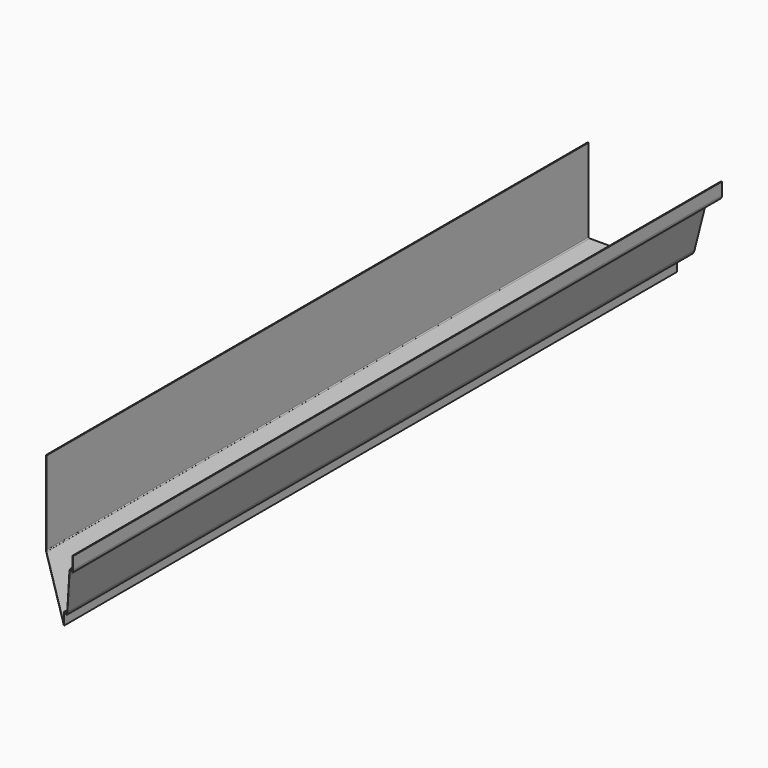
from build123d import *

# Parameters (mm, degrees)
F1_DEPTH = 1000
F2_R     = 2.5
F3_DEPTH = 500


with BuildPart() as f1:
    # F0 (on Front) → F1 (new body)
    with BuildSketch(Plane.XZ):
        with BuildLine():
            Line((75, 38.914216), (75, 52.5))
            Line((75, 52.5), (74, 52.5))
            Line((74, 52.5), (74, 38.875))
            ThreePointArc((74, 38.875), (73.361451, 36.706903), (71.649678, 35.231024))
            ThreePointArc((71.649678, 35.231024), (60.8185, 29.988223), (54.643786, 19.659898))
            Line((54.643786, 19.659898), (43.416317, -24.63337))
            ThreePointArc((43.416317, -24.63337), (41.948954, -27.705545), (39.413109, -29.977308))
            Line((39.413109, -29.977308), (26.950339, -37.332837))
            ThreePointArc((26.950339, -37.332837), (24.789532, -39.524934), (24, -42.5))
            Line((24, -42.5), (24, -51.5))
            Line((24, -51.5), (-73, -51.5))
            ThreePointArc((-73, -51.5), (-73.707107, -51.207107), (-74, -50.5))
            Line((-74, -50.5), (-74, 42.5))
            Line((-74, 42.5), (-75, 42.5))
            Line((-75, 42.5), (-75, -50.5))
            ThreePointArc((-75, -50.5), (-74.414214, -51.914214), (-73, -52.5))
            Line((-73, -52.5), (25, -52.5))
            Line((25, -52.5), (25, -42.5))
            ThreePointArc((25, -42.5), (25.657943, -40.020778), (27.458616, -38.194031))
            Line((27.458616, -38.194031), (39.921386, -30.838502))
            ThreePointArc((39.921386, -30.838502), (42.749295, -28.305091), (44.385661, -24.87908))
            Line((44.385661, -24.87908), (55.613129, 19.414189))
            ThreePointArc((55.613129, 19.414189), (61.539869, 29.29273), (71.932405, 34.263346))
            ThreePointArc((71.932405, 34.263346), (74.173992, 36.121942), (75, 38.914216))
        make_face()
    extrude(amount=F1_DEPTH)

    # F2 (on face) → F3 (intersect)
    with BuildSketch(Plane(origin=(0, 0, -52.5), x_dir=(1, 0, 0), z_dir=(0, 0, -1))):
        Polygon((167.548278, 1032.747719), (-332.451722, 532.747719), (-332.451722, 32.747719), (167.548278, 32.747719), (167.548278, 532.747719), align=None)
        with Locations((13.009851, 434.264054)):
            Circle(F2_R, mode=Mode.SUBTRACT)
    extrude(amount=-F3_DEPTH, mode=Mode.INTERSECT)


solid = f1.part
